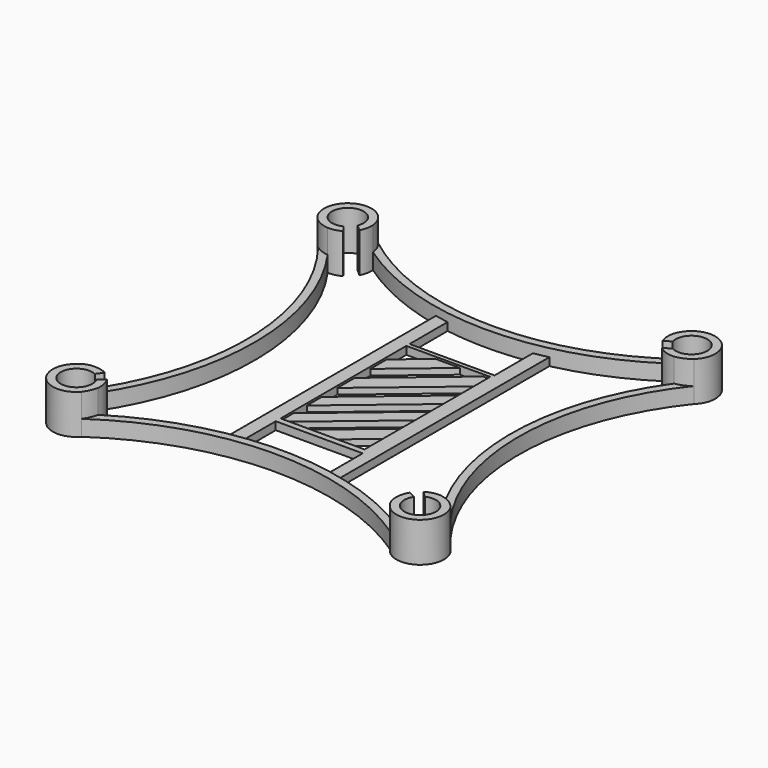
from build123d import *

# Parameters (mm, degrees)
F1_DEPTH = 10
F2_DEPTH = 4
F4_DEPTH = 2
F5_W     = 21.1815265939
F5_H     = 39.6702438593
F6_DEPTH = 0.5
F8_DEPTH = 1.501


with BuildPart() as f1:
    # F0 (on Top) → F1 (new body)
    with BuildSketch(Plane.XY):
        with BuildLine():
            Line((-62.1572475363, -49.3555771993), (-60.9726684437, -47.7181399205))
            ThreePointArc((-60.9726684437, -47.7181399205), (-62.5677534438, -47.1070816307), (-64.2703892861, -46.970262115))
            ThreePointArc((-64.2703892861, -46.970262115), (-66.055157525, -47.2638248655), (-67.5855421771, -48.2279304467))
            ThreePointArc((-67.5855421771, -48.2279304467), (-68.2915955562, -57.0411338211), (-59.4503077741, -56.9892161196))
            ThreePointArc((-59.4503077741, -56.9892161196), (-58.503657354, -55.3744867929), (-57.9284491894, -53.593298037))
            ThreePointArc((-57.9284491894, -53.593298037), (-58.0525320787, -51.5916655896), (-58.8293116163, -49.7427354752))
            Line((-58.8293116163, -49.7427354752), (-60.3885015243, -51.0333806943))
            ThreePointArc((-60.3885015243, -51.0333806943), (-66.6476098165, -55.8605427209), (-62.1572475363, -49.3555771993))
        make_face()
    extrude(amount=F1_DEPTH)



with BuildPart() as f1b:
    # F0 (on Top) → F1, piece 2 (new body)
    with BuildSketch(Plane.XY):
        with BuildLine():
            ThreePointArc((17.1087630149, -53.4675772739), (17.3345654758, -55.024615232), (18.0236412267, -56.4390156575))
            ThreePointArc((18.0236412267, -56.4390156575), (26.3870023747, -58.2706581148), (28.0672567096, -49.8755721025))
            ThreePointArc((28.0672567096, -49.8755721025), (27.8342119425, -49.6100285483), (27.6026930798, -49.343153561))
            ThreePointArc((27.6026930798, -49.343153561), (25.6605798387, -47.9272938937), (23.3536224131, -47.2531945869))
            ThreePointArc((23.3536224131, -47.2531945869), (21.5502161664, -47.4529085878), (19.8889698394, -48.1825800302))
            Line((19.8889698394, -48.1825800302), (21.3739898723, -49.6418572585))
            ThreePointArc((21.3739898723, -49.6418572585), (23.6329189205, -49.2830550049), (25.7191516005, -50.2206757743))
            ThreePointArc((25.7191516005, -50.2206757743), (26.0985339145, -50.66438117), (26.4819704741, -51.1045877386))
            ThreePointArc((26.4819704741, -51.1045877386), (23.0622875716, -57.2478053636), (19.7737803157, -51.0333806943))
            Line((19.7737803157, -51.0333806943), (17.9670109528, -50.1490486996))
            ThreePointArc((17.9670109528, -50.1490486996), (17.2958667801, -51.7457209867), (17.1087630149, -53.4675772739))
        make_face()
    extrude(amount=F1_DEPTH)


with BuildPart() as f1c:
    # F0 (on Top) → F1, piece 3 (new body)
    with BuildSketch(Plane.XY):
        with BuildLine():
            ThreePointArc((26.0956428667, 29.3550487731), (25.6609988664, 38.5030065298), (16.7099807908, 36.5656573261))
            ThreePointArc((16.7099807908, 36.5656573261), (16.1402416091, 35.1660163707), (16.0062342849, 33.6608122064))
            ThreePointArc((16.0062342849, 33.6608122064), (16.109517209, 32.6334069675), (16.3874284639, 31.6389250815))
            Line((16.3874284639, 31.6389250815), (18.1665952148, 32.6217676343))
            ThreePointArc((18.1665952148, 32.6217676343), (22.4683173599, 37.7181778333), (25.4838572425, 31.7696713362))
            ThreePointArc((25.4838572425, 31.7696713362), (23.0337650915, 29.879413145), (19.9683402486, 30.3027311227))
            Line((19.9683402486, 30.3027311227), (18.2454213302, 29.0694802814))
            ThreePointArc((18.2454213302, 29.0694802814), (20.1934444417, 28.0252417902), (22.3873843451, 27.7571825242))
            ThreePointArc((22.3873843451, 27.7571825242), (24.3427437086, 28.3211852273), (26.0956428667, 29.3550487731))
        make_face()
    extrude(amount=F1_DEPTH)


with BuildPart() as f1d:
    # F0 (on Top) → F1, piece 4 (new body)
    with BuildSketch(Plane.XY):
        with BuildLine():
            ThreePointArc((-68.732125287, 29.3414321402), (-67.1003065349, 28.443679964), (-65.2817843614, 28.0414753968))
            ThreePointArc((-65.2817843614, 28.0414753968), (-63.5823726874, 28.2029549498), (-61.9972172476, 28.8364830984))
            Line((-61.9972172476, 28.8364830984), (-63.1768257939, 30.471091811))
            ThreePointArc((-63.1768257939, 30.471091811), (-67.9311262024, 36.7498087051), (-61.2988677278, 32.5025971803))
            Line((-61.2988677278, 32.5025971803), (-59.7430924035, 31.1312410763))
            ThreePointArc((-59.7430924035, 31.1312410763), (-59.1314611672, 32.7570252654), (-59.0111762545, 34.4898837532))
            ThreePointArc((-59.0111762545, 34.4898837532), (-59.5181526175, 36.4535488342), (-60.6284022775, 38.1507086015))
            ThreePointArc((-60.6284022775, 38.1507086015), (-69.4096636596, 38.09668268), (-68.732125287, 29.3414321402))
        make_face()
    extrude(amount=F1_DEPTH)


with BuildPart() as f1_1:
    add(f1.part)

    add(f1b.part)  # F2 merges F1b

    add(f1c.part)  # F2 merges F1c

    add(f1d.part)  # F2 merges F1d
    # F0 (on Top) → F2 (join)
    with BuildSketch(Plane.XY):
        with BuildLine():
            ThreePointArc((-67.5855421771, -48.2279304467), (-66.055157525, -47.2638248655), (-64.2703892861, -46.970262115))
            ThreePointArc((-64.2703892861, -46.970262115), (-53.1706504597, -9.3079154321), (-65.2817843614, 28.0414753968))
            ThreePointArc((-65.2817843614, 28.0414753968), (-67.1003065349, 28.443679964), (-68.732125287, 29.3414321402))
            ThreePointArc((-68.732125287, 29.3414321402), (-55.1716501295, -9.251280509), (-67.5855421771, -48.2279304467))
        make_face()
        with BuildLine():
            ThreePointArc((16.7099807908, 36.5656573261), (-22.2207470412, 24.5972113145), (-60.6284022775, 38.1507086015))
            ThreePointArc((-60.6284022775, 38.1507086015), (-59.5181526175, 36.4535488342), (-59.0111762545, 34.4898837532))
            ThreePointArc((-59.0111762545, 34.4898837532), (-21.6294297382, 22.5876579696), (16.0062342849, 33.6608122064))
            ThreePointArc((16.0062342849, 33.6608122064), (16.1402416091, 35.1660163707), (16.7099807908, 36.5656573261))
        make_face()
        with BuildLine():
            ThreePointArc((27.6026930798, -49.343153561), (12.6512102924, -10.2659396101), (26.0956428667, 29.3550487731))
            ThreePointArc((26.0956428667, 29.3550487731), (24.3427437086, 28.3211852273), (22.3873843451, 27.7571825242))
            ThreePointArc((22.3873843451, 27.7571825242), (10.6432367974, -9.9055102447), (23.3536224131, -47.2531945869))
            ThreePointArc((23.3536224131, -47.2531945869), (25.6605798387, -47.9272938937), (27.6026930798, -49.343153561))
        make_face()
        with BuildLine():
            ThreePointArc((-57.9284491894, -53.593298037), (-58.503657354, -55.3744867929), (-59.4503077741, -56.9892161196))
            ThreePointArc((-59.4503077741, -56.9892161196), (-20.798072436, -44.7819602715), (18.0236412267, -56.4390156575))
            ThreePointArc((18.0236412267, -56.4390156575), (17.3345654758, -55.024615232), (17.1087630149, -53.4675772739))
            ThreePointArc((17.1087630149, -53.4675772739), (-20.4278543179, -42.780323647), (-57.9284491894, -53.593298037))
        make_face()
    extrude(amount=F2_DEPTH)

    # F3 (on face) → F4 (join)
    with BuildSketch(Plane(origin=(0, 0, 0), x_dir=(1, 0, 0), z_dir=(0, 0, -1))):
        with BuildLine():
            Line((-9.3221692368, 30.8540649712), (-31.277757138, 30.8540649712))
            Line((-31.277757138, 30.8540649712), (-31.277757138, 43.6344668102))
            ThreePointArc((-31.277757138, 43.6344668102), (-33.0149879746, 43.9288902719), (-34.7443595529, 44.266425601))
            Line((-34.7443595529, 44.266425601), (-34.7443595529, 30.8540649712))
            Line((-34.7443595529, 30.8540649712), (-34.7443595529, -11.383831501))
            Line((-34.7443595529, -11.383831501), (-34.7443595529, -24.0321703309))
            ThreePointArc((-34.7443595529, -24.0321703309), (-33.0152564459, -23.6903099606), (-31.277757138, -23.3940630665))
            Line((-31.277757138, -23.3940630665), (-31.277757138, -11.383831501))
            Line((-31.277757138, -11.383831501), (-9.8225176334, -11.383831501))
            Line((-9.8225176334, -11.383831501), (-9.8225176334, -23.5040877089))
            ThreePointArc((-9.8225176334, -23.5040877089), (-8.027086971, -23.8300565225), (-6.2412018888, -24.2048116485))
            Line((-6.2412018888, -24.2048116485), (-6.2412018888, -11.383831501))
            Line((-6.2412018888, -11.383831501), (-6.2412018888, 30.8540649712))
            Line((-6.2412018888, 30.8540649712), (-6.2412018888, 44.1910067814))
            ThreePointArc((-6.2412018888, 44.1910067814), (-7.7786273027, 43.8971600473), (-9.3221692368, 43.6373503013))
            Line((-9.3221692368, 43.6373503013), (-9.3221692368, 30.8540649712))
        make_face()
    extrude(amount=-F4_DEPTH)

    # F5 (on face) → F6 (cut)
    with BuildSketch(Plane.XY.offset(2)):
        with Locations((-20.6869938411, -9.4783511013)):
            Rectangle(F5_W, F5_H)
    extrude(amount=-F6_DEPTH, mode=Mode.SUBTRACT)

    # F7 (on face) → F8 (cut, through all)
    with BuildSketch(Plane.XY.offset(1.5)):
        Polygon((-31.277757138, 10.3567708284), (-31.277757138, 4.1535533965), (-23.8866638392, 10.3567708284), align=None)
        Polygon((-17.7311521972, 10.3567708284), (-31.277757138, -1.0126616107), (-31.277757138, -5.9374999255), (-11.8632393173, 10.3567708284), align=None)
        Polygon((-10.0962305441, 6.3696975482), (-31.277757138, -11.4075932652), (-31.277757138, -16.3320098072), (-10.0962305441, 1.4452810061), align=None)
        Polygon((-10.0962305441, -3.244678803), (-31.277757138, -21.0219696164), (-31.277757138, -25.2428706735), (-10.0962305441, -7.4655798602), align=None)
        Polygon((-10.0962305441, -16.7659351889), (-10.0962305441, -12.173710581), (-30.5181462318, -29.3134730309), (-25.0465404242, -29.3134730309), align=None)
        Polygon((-10.0962305441, -29.3134730309), (-10.0962305441, -22.3181112129), (-18.4311587363, -29.3134730309), align=None)
    extrude(amount=-F8_DEPTH, mode=Mode.SUBTRACT)


solid = f1_1.part
